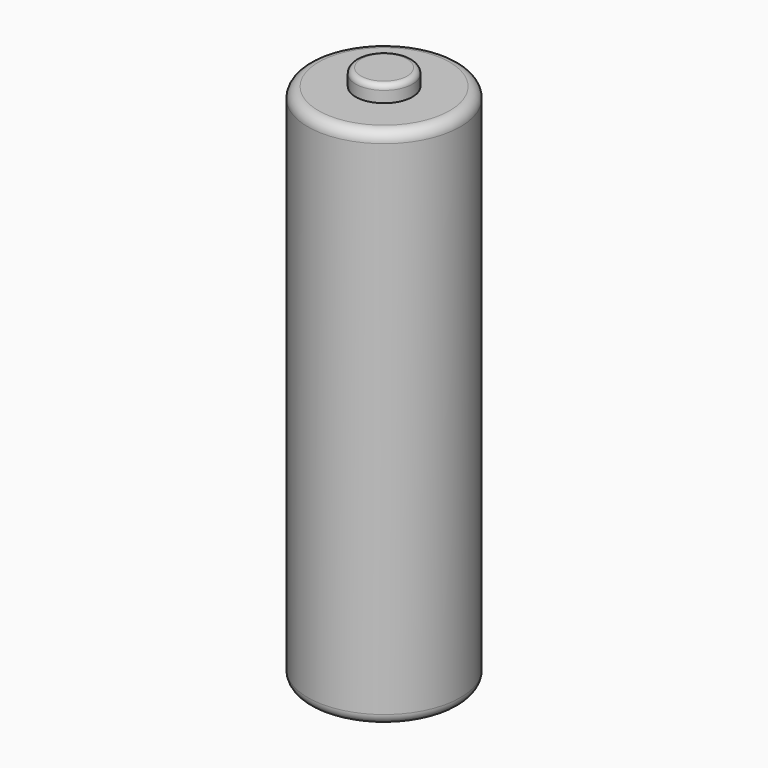
from build123d import *

# Parameters (mm, degrees)
F0_R     = 7.125
F1_DEPTH = 24.45
F2_R     = 2.65
F3_DEPTH = 1.55
F4_R     = 0.5
F5_R     = 1


with BuildPart() as f1:
    # F0 (on Top) → F1 (new body, symmetric)
    with BuildSketch(Plane.XY):
        Circle(F0_R)
    extrude(amount=F1_DEPTH, both=True)

    # F2 (on face) → F3 (join)
    with BuildSketch(Plane.XY.offset(24.45)):
        Circle(F2_R)
    extrude(amount=F3_DEPTH)

    # F4
    f4_edges = [f1.edges().sort_by_distance(p)[0] for p in [
        (-2.65, 0, 26),
    ]]
    fillet(f4_edges, radius=F4_R)

    # F5
    f5_edges = [f1.edges().sort_by_distance(p)[0] for p in [
        (-7.125, 0, 24.45),
        (-7.125, 0, -24.45),
    ]]
    fillet(f5_edges, radius=F5_R)


solid = f1.part
